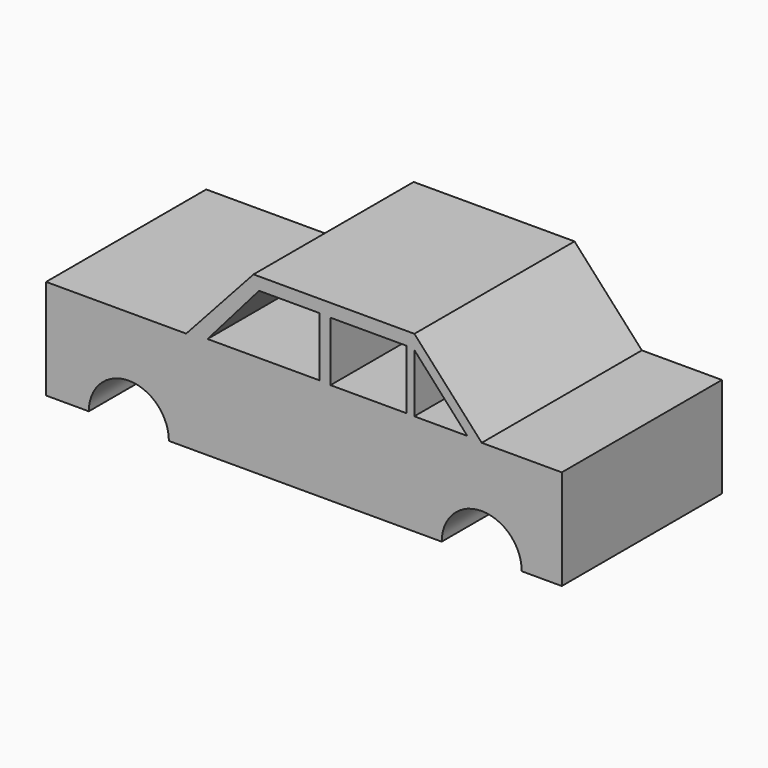
from build123d import *

# Parameters (mm, degrees)
F1_DEPTH = 25.4
F3_DEPTH = 25.4
F4_W     = 9.634385
F4_H     = 7.539335
F5_DEPTH = 25.4
F7_DEPTH = 25.4


with BuildPart() as f1:
    # F0 (on Front) → F1 (new body)
    with BuildSketch(Plane.XZ):
        with BuildLine():
            Line((-37.501371, 12.7), (-55.281371, 12.7))
            Line((-55.281371, 12.7), (-55.281371, 0))
            Line((-55.281371, 0), (-49.858869, 0))
            ThreePointArc((-49.858869, 0), (-44.778869, 5.08), (-39.698869, 0))
            Line((-39.698869, 0), (-5.08, 0))
            ThreePointArc((-5.08, 0), (0, 5.08), (5.08, 0))
            Line((5.08, 0), (10.16, 0))
            Line((10.16, 0), (10.16, 12.7))
            Line((10.16, 12.7), (0, 12.7))
            Line((0, 12.7), (-8.544024, 22.096257))
            Line((-8.544024, 22.096257), (-28.957347, 22.096257))
            Line((-28.957347, 22.096257), (-37.501371, 12.7))
        make_face()
    extrude(amount=F1_DEPTH)

    # F2 (on face) → F3 (cut)
    with BuildSketch(Plane.XZ.offset(25.4)):
        Polygon((-28.253765, 20.494862), (-34.789096, 12.980141), (-20.598149, 12.980141), (-20.598149, 20.494862), align=None)
    extrude(amount=-F3_DEPTH, mode=Mode.SUBTRACT)

    # F4 (on face) → F5 (cut)
    with BuildSketch(Plane.XZ.offset(25.4)):
        with Locations((-14.375965, 16.666421)):
            Rectangle(F4_W, F4_H)
    extrude(amount=-F5_DEPTH, mode=Mode.SUBTRACT)

    # F6 (on face) → F7 (cut)
    with BuildSketch(Plane.XZ.offset(25.4)):
        Polygon((-1.828437, 12.872539), (-8.559588, 20.295901), (-8.559588, 12.872539), align=None)
    extrude(amount=-F7_DEPTH, mode=Mode.SUBTRACT)


solid = f1.part
